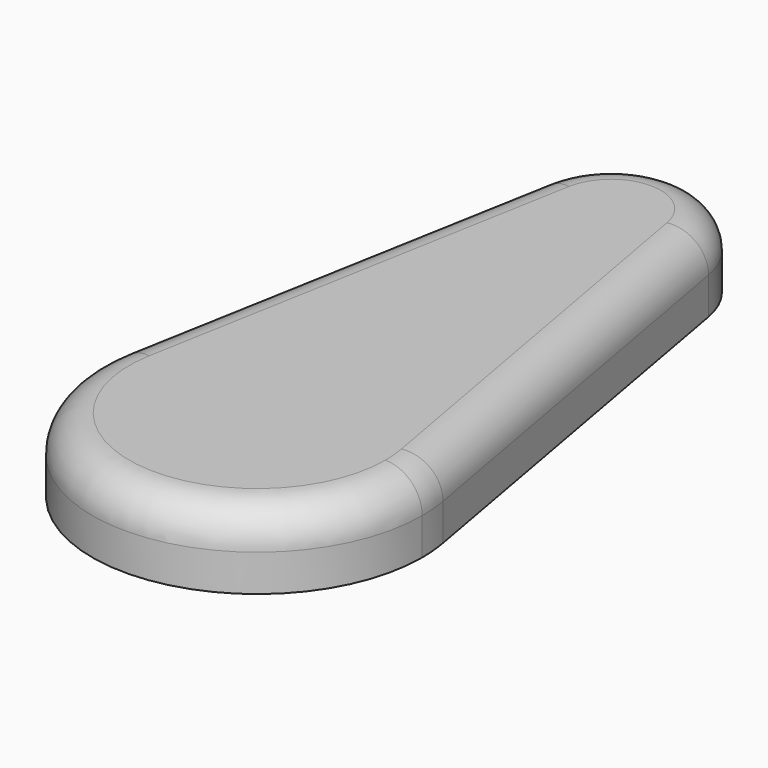
from build123d import *

# Parameters (mm, degrees)
F1_DEPTH = 10
F2_R     = 5


with BuildPart() as f1:
    # F0 (on Top) → F1 (new body)
    with BuildSketch(Plane.XY):
        with BuildLine():
            ThreePointArc((-22.02937, 3.964527), (-1.990145, -22.294617), (22.383267, 0))
            ThreePointArc((22.383267, 0), (22.294617, 1.990145), (22.02937, 3.964527))
            ThreePointArc((22.02937, 3.964527), (0, 22.383267), (-22.02937, 3.964527))
        make_face()
        with BuildLine():
            ThreePointArc((-22.02937, 3.964527), (0, 22.383267), (22.02937, 3.964527))
            Line((22.02937, 3.964527), (11.572427, 62.069788))
            ThreePointArc((11.572427, 62.069788), (11.711766, 61.03261), (11.758336, 59.98715))
            ThreePointArc((11.758336, 59.98715), (-1.045459, 48.275384), (-11.572427, 62.069788))
            Line((-11.572427, 62.069788), (-22.02937, 3.964527))
        make_face()
        with BuildLine():
            ThreePointArc((11.758336, 59.98715), (11.711766, 61.03261), (11.572427, 62.069788))
            ThreePointArc((11.572427, 62.069788), (0, 71.745486), (-11.572427, 62.069788))
            ThreePointArc((-11.572427, 62.069788), (-1.045459, 48.275384), (11.758336, 59.98715))
        make_face()
    extrude(amount=F1_DEPTH)

    # F2
    f2_edges = [f1.edges().sort_by_distance(p)[0] for p in [
        (-1.990145, -22.294617, 10),
    ]]
    fillet(f2_edges, radius=F2_R)


solid = f1.part
